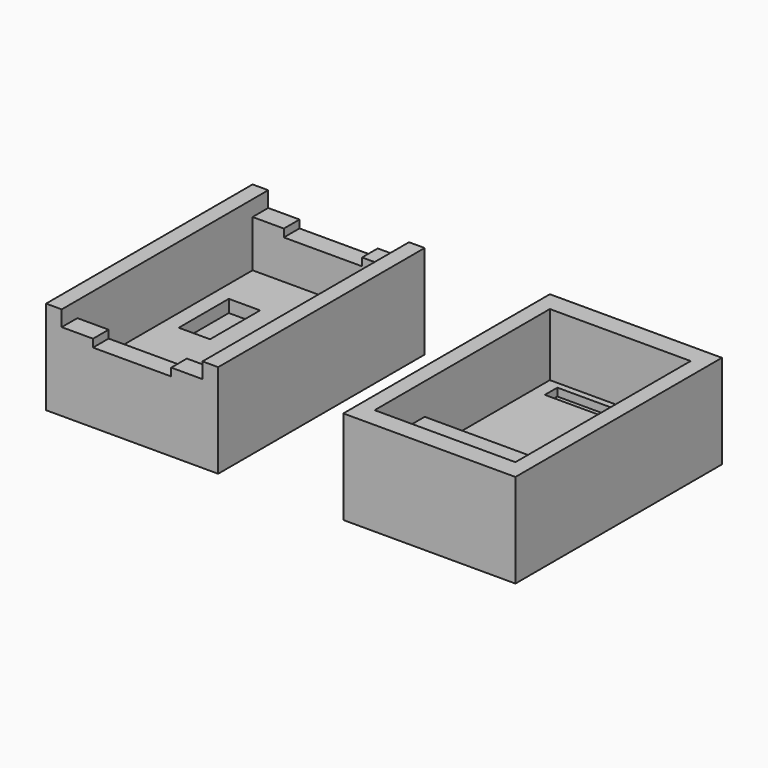
from build123d import *

# Parameters (mm, degrees)
F0_W      = 69.85
F0_H      = 104.775
F1_DEPTH  = 38.1
F2_W      = 57.15
F2_H      = 88.9
F3_DEPTH  = 25.4
F4_W      = 57.15
F4_H      = 25.4
F5_DEPTH  = 12.7
F6_DEPTH  = 25.4
F8_DEPTH  = 104.776
F9_W      = 12.7
F9_H      = 25.4
F10_DEPTH = 5.08
F11_W     = 46.99
F11_H     = 6.35
F12_DEPTH = 3.175


with BuildPart() as f1:
    # F0 (on Top) → F1 (new body)
    with BuildSketch(Plane.XY):
        Rectangle(F0_W, F0_H)
    extrude(amount=-F1_DEPTH)

    # F2 (on Top) → F3 (cut)
    with BuildSketch(Plane.XY):
        Rectangle(F2_W, F2_H)
    extrude(amount=-F3_DEPTH, mode=Mode.SUBTRACT)

    # F4 (on face) → F5 (join)
    with BuildSketch(Plane.XY.offset(-25.4)):
        with Locations((0, -31.75)):
            Rectangle(F4_W, F4_H)
    extrude(amount=F5_DEPTH)

    # F11 (on face) → F12 (cut)
    with BuildSketch(Plane.XY.offset(-25.4)):
        with Locations((0, 38.735)):
            Rectangle(F11_W, F11_H)
    extrude(amount=-F12_DEPTH, mode=Mode.SUBTRACT)


with BuildPart() as f1b:
    # F0 (on Top) → F1, piece 2 (new body)
    with BuildSketch(Plane.XY):
        with Locations((-120.6659083736, 0)):
            Rectangle(F0_W, F0_H)
    extrude(amount=-F1_DEPTH)

    # F2 (on Top) → F6 (cut)
    with BuildSketch(Plane.XY):
        Rectangle(F2_W, F2_H)
        with Locations((-120.6659083736, 0)):
            Rectangle(F2_W, F2_H)
    extrude(amount=-F6_DEPTH, mode=Mode.SUBTRACT)

    # F7 (on face) → F8 (cut, through all)
    with BuildSketch(Plane.XZ.offset(52.3875)):
        Polygon((-92.0909083736, 0), (-149.2409083736, 0), (-149.2409083736, -6.35), (-136.5409083736, -6.35), (-136.5409083736, -9.525), (-104.7909083736, -9.525), (-104.7909083736, -6.35), (-92.0909083736, -6.35), align=None)
    extrude(amount=-F8_DEPTH, mode=Mode.SUBTRACT)

    # F9 (on face) → F10 (cut)
    with BuildSketch(Plane.XY.offset(-25.4)):
        with Locations((-136.5409083736, 11.75)):
            Rectangle(F9_W, F9_H)
    extrude(amount=-F10_DEPTH, mode=Mode.SUBTRACT)


solid = Compound([f1.part, f1b.part])
